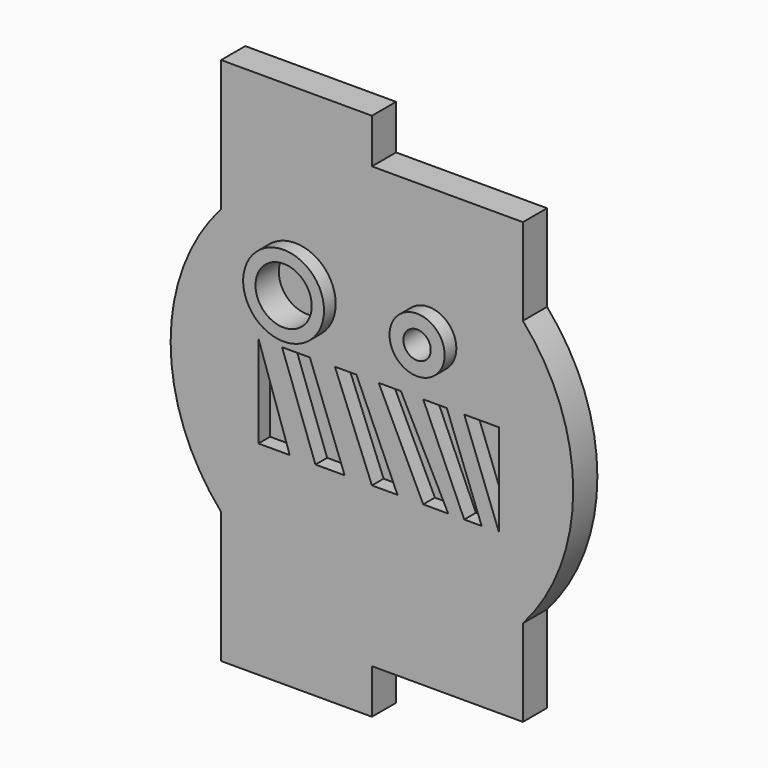
from build123d import *

# Parameters (mm, degrees)
F1_DEPTH = 2.1
F2_R     = 1.955848
F2_R_2   = 0.950029
F3_DEPTH = 1.016
F2_R_3   = 2.811265
F2_R_4   = 1.91782
F4_DEPTH = 1.016


with BuildPart() as f1:
    # F0 (on Front) → F1 (new body)
    with BuildSketch(Plane.XZ):
        with BuildLine():
            Line((-10.4902, 18.4), (-10.4902, 9.27123))
            ThreePointArc((-10.4902, 9.27123), (-14, 0), (-10.4902, -9.27123))
            Line((-10.4902, -9.27123), (-10.4902, -18.4))
            Line((-10.4902, -18.4), (0, -18.4))
            Line((0, -18.4), (0, -15.3))
            Line((0, -15.3), (10.5, -15.3))
            Line((10.5, -15.3), (10.5, -9.26013))
            ThreePointArc((10.5, -9.26013), (14, 0), (10.5, 9.26013))
            Line((10.5, 9.26013), (10.5, 15.3))
            Line((10.5, 15.3), (0, 15.3))
            Line((0, 15.3), (0, 18.4))
            Line((0, 18.4), (-10.4902, 18.4))
        make_face()
    extrude(amount=F1_DEPTH)

    # F2 (on face) → F3 (cut)
    with BuildSketch(Plane.XZ.offset(2.1)):
        Polygon((-5.717198, -4.234256), (-7.893182, 2.19699), (-7.893182, -4.234256), align=None)
        Polygon((-4.314896, 2.19699), (-6.249105, 2.19699), (-3.928055, -4.234256), (-1.897135, -4.234256), align=None)
        Polygon((-1.075096, 2.19699), (-2.574108, 2.19699), (0, -4.234256), (1.777862, -4.234256), align=None)
        Polygon((2.019639, 2.19699), (0.472271, 2.19699), (3.567006, -4.234256), (5.307794, -4.234256), align=None)
        Polygon((5.211083, 2.19699), (3.567006, 2.19699), (6.419964, -4.234256), (7.628845, -4.234256), align=None)
        Polygon((8.837725, 2.19699), (6.419963, 2.19699), (8.837725, -4.234256), align=None)
        with Locations((-5.330356, 6.065408)):
            Circle(F2_R)
        with Locations((3.953848, 6.065408)):
            Circle(F2_R_2)
    extrude(amount=-F3_DEPTH, mode=Mode.SUBTRACT)

    # F2 (on face) → F4 (join)
    with BuildSketch(Plane.XZ.offset(2.1)):
        with Locations((-5.330356, 6.065408)):
            Circle(F2_R_3)
        with Locations((-5.330356, 6.065408)):
            Circle(F2_R, mode=Mode.SUBTRACT)
        with Locations((3.953848, 6.065408)):
            Circle(F2_R_4)
        with Locations((3.953848, 6.065408)):
            Circle(F2_R_2, mode=Mode.SUBTRACT)
    extrude(amount=F4_DEPTH)


solid = f1.part
